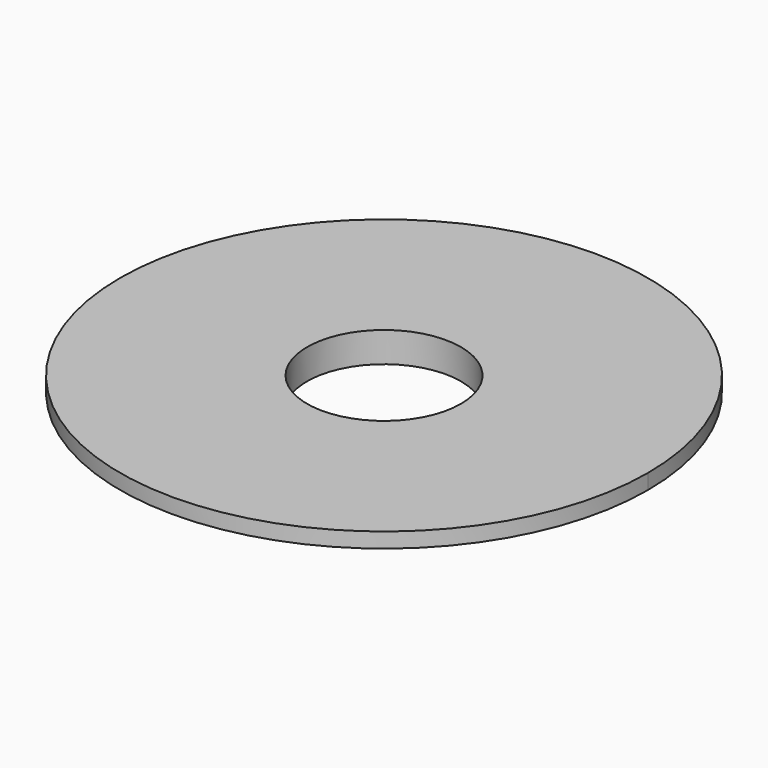
from build123d import *

# Parameters (mm, degrees)
F1_DEPTH = 3
F2_R     = 13.5
F2_R_2   = 10
F3_DEPTH = 2
F4_DEPTH = 1
F5_R     = 10.2
F5_R_2   = 10
F6_DEPTH = 25


with BuildPart() as f1:
    # F0 (on Top) → F1 (new body)
    with BuildSketch(Plane.XY):
        with BuildLine():
            ThreePointArc((35, 0), (10.4809717311, 33.3938502059), (-28.7228132327, 20))
            Line((-28.7228132327, 20), (20, 20))
            Line((20, 20), (20, -20))
            Line((20, -20), (-28.7228132327, -20))
            ThreePointArc((-28.7228132327, -20), (10.4809717311, -33.3938502059), (35, 0))
        make_face()
        with BuildLine():
            ThreePointArc((-28.7228132327, 20), (-33.3938502059, 10.4809717311), (-35, 0))
            ThreePointArc((-35, 0), (-33.3938502059, -10.4809717311), (-28.7228132327, -20))
            Line((-28.7228132327, -20), (20, -20))
            Line((20, -20), (20, 20))
            Line((20, 20), (-28.7228132327, 20))
        make_face()
        with BuildLine():
            ThreePointArc((-10, 0), (0, 10), (10, 0))
            ThreePointArc((10, 0), (0, -10), (-10, 0))
        make_face(mode=Mode.SUBTRACT)
    extrude(amount=F1_DEPTH)

    # F2 (on face) → F3 (join)
    with BuildSketch(Plane(origin=(0, 0, 0), x_dir=(1, 0, 0), z_dir=(0, 0, -1))):
        Circle(F2_R)
        Circle(F2_R_2, mode=Mode.SUBTRACT)
    extrude(amount=F3_DEPTH)

    # F4 (cut): a face of the model
    f4_faces = [f1.faces().sort_by_distance(p)[0] for p in [
        (-34.0100505063, 0, 3),
    ]]
    extrude(f4_faces, amount=-F4_DEPTH, mode=Mode.SUBTRACT)

    # F5 (on face) → F6 (cut)
    with BuildSketch(Plane.XY.offset(2)):
        Circle(F5_R)
        Circle(F5_R_2, mode=Mode.SUBTRACT)
    extrude(amount=-F6_DEPTH, mode=Mode.SUBTRACT)


solid = f1.part
